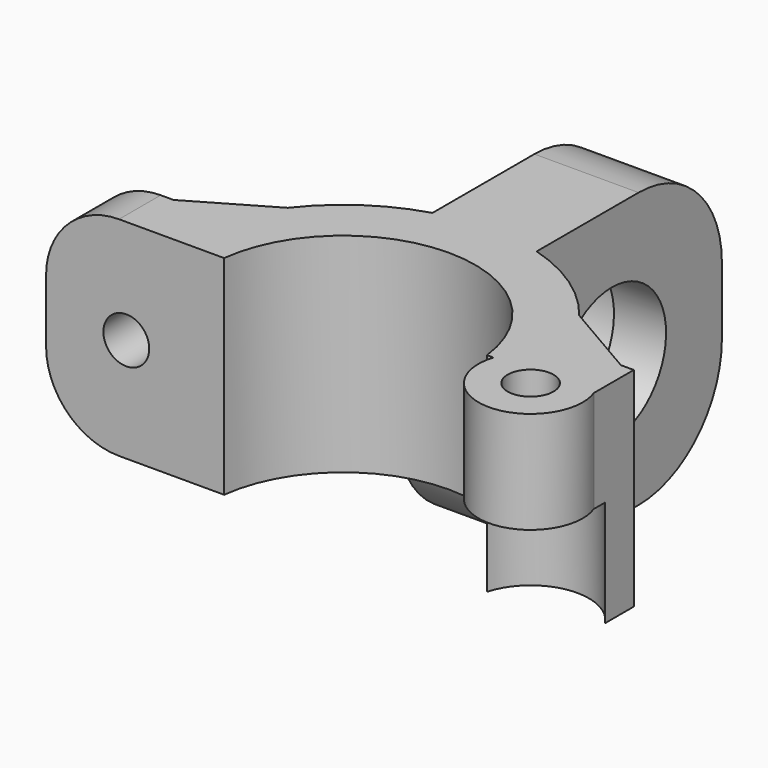
from build123d import *

# Parameters (mm, degrees)
CYLINDER005_R     = 6.5
CYLINDER005_DEPTH = 10
CYLINDER004_R     = 8.2
CYLINDER004_DEPTH = 5
BOX_W             = 10
BOX_H             = 26.4
BOX_DEPTH         = 26.4
FILLET_R          = 10
CYLINDER010_R     = 5.6
CYLINDER010_DEPTH = 10.2
CYLINDER008_R     = 2.2
CYLINDER008_DEPTH = 20
CYLINDER002_R     = 2.2
CYLINDER002_DEPTH = 20
PAD_DEPTH         = 20
PAD001_DEPTH      = 5
CYLINDER009_R     = 5
CYLINDER009_DEPTH = 9.8


with BuildPart() as bring_holder_hole:
    # Cylinder005 → Cylinder005 (new body)
    with BuildSketch(Plane(origin=(0, 0, 0), x_dir=(0, 0, -1), z_dir=(1, 0, 0))):
        Circle(CYLINDER005_R)
    extrude(amount=CYLINDER005_DEPTH)


with BuildPart() as bring_holder_extract:
    # Cylinder004 → Cylinder004 (new body)
    with BuildSketch(Plane(origin=(0, 0, 0), x_dir=(0, 0, -1), z_dir=(1, 0, 0))):
        Circle(CYLINDER004_R)
    extrude(amount=CYLINDER004_DEPTH)

    # Fusion001: union bring holder hole
    add(bring_holder_hole.part)


with BuildPart() as bring_holder_cut:
    # Box → Box (new body)
    with BuildSketch(Plane(origin=(0, -13.2, -13.2), x_dir=(1, 0, 0), z_dir=(0, 0, 1))):
        with Locations((5, 13.2)):
            Rectangle(BOX_W, BOX_H)
    extrude(amount=BOX_DEPTH)

    # Fillet
    fillet_edges = [bring_holder_cut.edges().sort_by_distance(p)[0] for p in [
        (5, -13.2, 13.2),
        (5, 13.2, -13.2),
        (5, 13.2, 13.2),
    ]]
    fillet(fillet_edges, radius=FILLET_R)

    # Cut023015003: cut bring holder extract
    add(bring_holder_extract.part, mode=Mode.SUBTRACT)


with BuildPart() as bring_holder_cut_1:
    # Cut023015003 placement: moved
    add(bring_holder_cut.part.moved(Location((-5, 26, 13.2))))


with BuildPart() as horizontal_body_space:
    # Cylinder010 → Cylinder010 (new body)
    with BuildSketch(Plane(origin=(18, 0, 9.8), x_dir=(1, 0, 0), z_dir=(0, 0, 1))):
        Circle(CYLINDER010_R)
    extrude(amount=CYLINDER010_DEPTH)


with BuildPart() as horizontal_insert_hole:
    # Cylinder008 → Cylinder008 (new body)
    with BuildSketch(Plane(origin=(18, 0, 0), x_dir=(1, 0, 0), z_dir=(0, 0, 1))):
        Circle(CYLINDER008_R)
    extrude(amount=CYLINDER008_DEPTH)


with BuildPart() as f_25_mm_attachment_extract:
    # Cylinder002 → Cylinder002 (new body)
    with BuildSketch(Plane(origin=(-22, 20, 10), x_dir=(1, 0, 0), z_dir=(0, -1, 0))):
        Circle(CYLINDER002_R)
    extrude(amount=CYLINDER002_DEPTH)

    # Fusion007: union horizontal body space, horizontal insert hole
    add(horizontal_body_space.part)
    add(horizontal_insert_hole.part)


with BuildPart() as f_25_mm_attachment_body:
    # Sketch → Pad (new body)
    with BuildSketch(Plane.XY):
        with BuildLine():
            ThreePointArc((12.611106, 1.5), (0, 12.7), (-12.611106, 1.5))
            Line((-22.7, 1.5), (-12.611106, 1.5))
            Line((-22.7, 1.5), (-22.7, 6.5))
            Line((-22.7, 6.5), (-21.463293, 6.5))
            Line((-21.463293, 6.5), (-13.988671, 10.84468))
            ThreePointArc((13.988671, 10.84468), (0, 17.7), (-13.988671, 10.84468))
            Line((13.988671, 10.84468), (21.463293, 6.5))
            Line((21.463293, 6.5), (22.7, 6.5))
            Line((22.7, 6.5), (22.7, 1.5))
            Line((12.611106, 1.5), (22.7, 1.5))
        make_face()
    extrude(amount=PAD_DEPTH)

    # Sketch001 → Pad001 (join)
    with BuildSketch(Plane.XZ.offset(-1.5)):
        with BuildLine():
            Line((-12.611106, 20), (-22.7, 20))
            ThreePointArc((-22.7, 20), (-27.649747, 17.949747), (-29.7, 13))
            Line((-29.7, 13), (-29.7, 7))
            ThreePointArc((-29.7, 7), (-27.649747, 2.050253), (-22.7, 0))
            Line((-12.611106, 0), (-22.7, 0))
            Line((-12.611106, 20), (-12.611106, 0))
        make_face()
    extrude(amount=-PAD001_DEPTH)


with BuildPart() as f_25_mm_16mm_bring_attachment_fusion:
    # Cylinder009 → Cylinder009 (new body)
    with BuildSketch(Plane(origin=(18, 0, 0), x_dir=(1, 0, 0), z_dir=(0, 0, 1))):
        Circle(CYLINDER009_R)
    extrude(amount=CYLINDER009_DEPTH)

    # Fusion006: union 25 mm attachment body
    add(f_25_mm_attachment_body.part)

    # Cut023015002: cut 25 mm attachment extract
    add(f_25_mm_attachment_extract.part, mode=Mode.SUBTRACT)

    # Fusion002: union bring holder cut
    add(bring_holder_cut_1.part)


with BuildPart() as part_mirroring003:
    # Part__Mirroring003: instance of 25 mm 16mm bring attachment fusion
    add(f_25_mm_16mm_bring_attachment_fusion.part.mirror(Plane(origin=(0, 0, 0), x_dir=(0, 1, 0), z_dir=(0, 0, 1))))


solid = part_mirroring003.part
